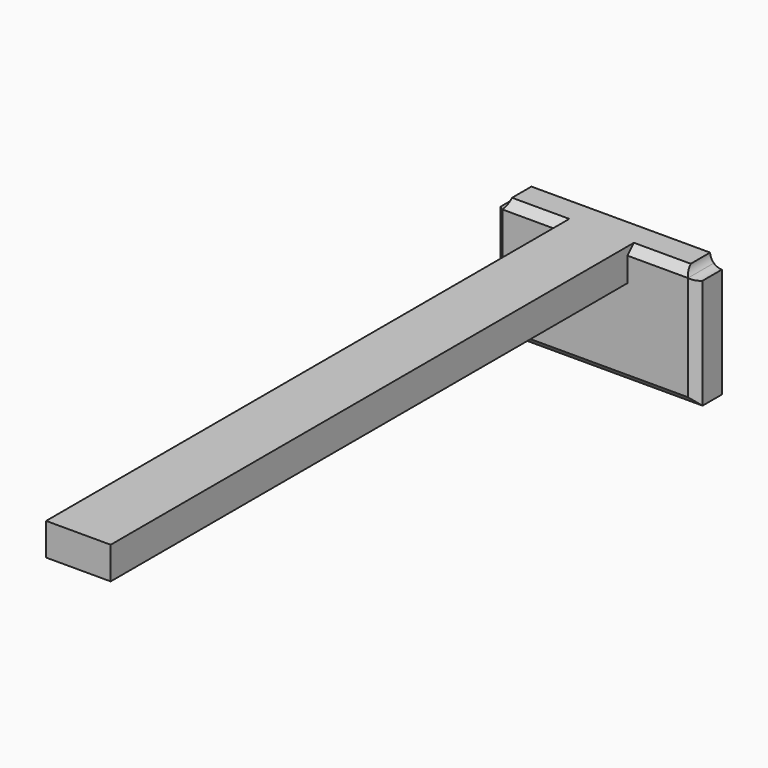
from build123d import *

# Parameters (mm, degrees)
F0_W     = 25
F0_H     = 15
F1_DEPTH = 4
F2_R     = 5
F3_DEPTH = 1.5
F5_DEPTH = 80
F6_SIZE  = 1
F8_DEPTH = 25


with BuildPart() as f1:
    # F0 (on Front) → F1 (new body)
    with BuildSketch(Plane.XZ):
        Rectangle(F0_W, F0_H)
    extrude(amount=F1_DEPTH)

    # F2 (on Front) → F3 (cut)
    with BuildSketch(Plane.XZ):
        Circle(F2_R)
    extrude(amount=F3_DEPTH, mode=Mode.SUBTRACT)

    # F4 (on face) → F5 (join)
    with BuildSketch(Plane.XZ.offset(4)):
        Polygon((4, 7.5), (0, 7.5), (-4, 7.5), (-4, 3.5), (4, 3.5), align=None)
    extrude(amount=F5_DEPTH)

    # F6
    f6_edges = [f1.edges().sort_by_distance(p)[0] for p in [
        (8.25, -4, 7.5),
        (-8.25, -4, 7.5),
        (-12.5, -4, 0),
        (0, -4, -7.5),
        (12.5, -4, 0),
    ]]
    chamfer(f6_edges, length=F6_SIZE)

    # F7 (on face) → F8 (cut)
    with BuildSketch(Plane.XZ.offset(4)):
        with BuildLine():
            ThreePointArc((13.912691, 7.559422), (11.895218, 8.876943), (11.5, 6.5))
            ThreePointArc((11.5, 6.5), (13.052276, 6.241901), (13.912691, 7.559422))
        make_face()
        with BuildLine():
            ThreePointArc((-11.5, 6.5), (-11.196021, 6.959825), (-11.089372, 7.500628))
            ThreePointArc((-11.089372, 7.500628), (-13.831705, 8.041431), (-11.5, 6.5))
        make_face()
    extrude(amount=-F8_DEPTH, mode=Mode.SUBTRACT)


solid = f1.part
